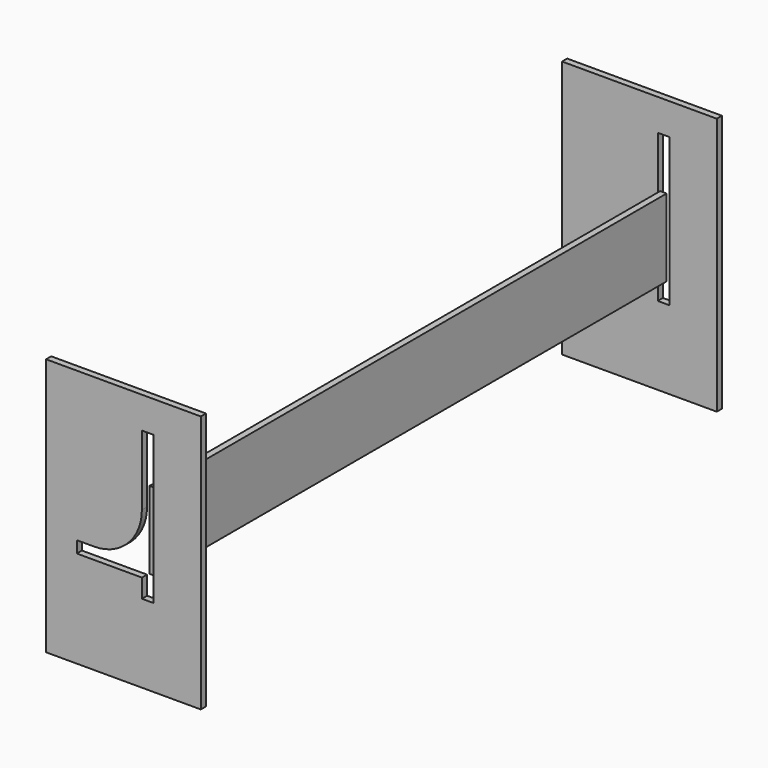
from build123d import *

# Parameters (mm, degrees)
F0_W     = 304.8
F0_H     = 508
F1_DEPTH = 12.7
F3_DEPTH = 12.701
F5_W     = 12.7
F5_H     = 152.4
F6_DEPTH = 1257.3


with BuildPart() as f1:
    # F0 (on Front) → F1 (new body)
    with BuildSketch(Plane.XZ):
        with Locations((152.4, 254)):
            Rectangle(F0_W, F0_H)
    extrude(amount=F1_DEPTH)

    # F2 (on face) → F3 (cut, through all)
    with BuildSketch(Plane.XZ.offset(12.7)):
        with BuildLine():
            Line((211.777581, 445.847867), (188.630028, 445.847867))
            Line((188.630028, 445.847867), (188.630028, 308.065936))
            ThreePointArc((188.630028, 308.065936), (161.100694, 241.604244), (94.639002, 214.07491))
            Line((94.639002, 214.07491), (60.456466, 214.07491))
            Line((60.456466, 214.07491), (60.456466, 190.927356))
            Line((60.456466, 190.927356), (188.630028, 190.927356))
            Line((188.630028, 190.927356), (188.630028, 154.240864))
            Line((188.630028, 154.240864), (211.777581, 154.240864))
            Line((211.777581, 154.240864), (211.777581, 445.847867))
        make_face()
    extrude(amount=-F3_DEPTH, mode=Mode.SUBTRACT)


with BuildPart() as f4_1:
    # F4: copy of F1
    add(f1.part.moved(Location((0, 1270, 0))))


with BuildPart() as f6:
    # F5 (on face) → F6 (new body, through all)
    with BuildSketch(Plane.XZ.offset(-1257.3)):
        with Locations((199.798152, 270.067694)):
            Rectangle(F5_W, F5_H)
    extrude(amount=F6_DEPTH)


solid = Compound([f1.part, f4_1.part, f6.part])
